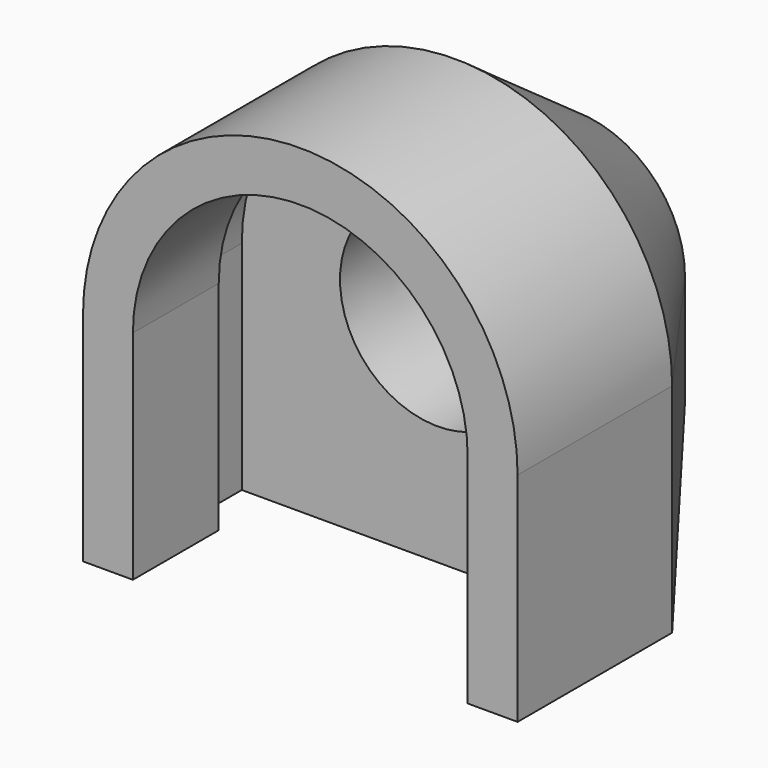
from build123d import *

# Parameters (mm, degrees)
F1_DEPTH  = 16
F3_DEPTH  = 8
F5_DEPTH  = 3
F7_R      = 4.4
F6_R      = 4.55
F9_ANGLE  = 90
F10_SIZE2 = 7
F10_SIZE  = 5


with BuildPart() as f1:
    # F0 (on Top) → F1 (new body)
    with BuildSketch(Plane.XY):
        with BuildLine():
            ThreePointArc((10.125, 0), (0, 10.125), (-10.125, 0))
            Line((-10.125, 0), (-10.125, -10.125))
            Line((-10.125, -10.125), (10.125, -10.125))
            Line((10.125, -10.125), (10.125, 0))
        make_face()
    extrude(amount=F1_DEPTH)

    # F2 (on face) → F3 (cut)
    with BuildSketch(Plane.XY.offset(16)):
        with BuildLine():
            ThreePointArc((7.8, 0), (0, 7.8), (-7.8, 0))
            Line((-7.8, 0), (-7.8, -10.125))
            Line((-7.8, -10.125), (7.8, -10.125))
            Line((7.8, -10.125), (7.8, 0))
        make_face()
    extrude(amount=-F3_DEPTH, mode=Mode.SUBTRACT)

    # F4 (on face) → F5 (cut)
    with BuildSketch(Plane.XY.offset(8)):
        with BuildLine():
            ThreePointArc((9.125, 0), (0, 9.125), (-9.125, 0))
            Line((-9.125, 0), (-9.125, -10.125))
            Line((-9.125, -10.125), (9.125, -10.125))
            Line((9.125, -10.125), (9.125, 0))
        make_face()
    extrude(amount=F5_DEPTH, mode=Mode.SUBTRACT)

    # F7 (on face) → F8 section 0
    with BuildSketch(Plane(origin=(0, 0, 0), x_dir=(1, 0, 0), z_dir=(0, 0, -1))):
        Circle(F7_R)
    # F6 (on face) → F8 section 1
    with BuildSketch(Plane.XY.offset(8)):
        Circle(F6_R)
    loft(mode=Mode.SUBTRACT)


with BuildPart() as f1_1:
    # F9: moved
    add(f1.part.rotate(Axis((0, -10.125, 0), (1, 0, 0)), F9_ANGLE))

    # F10
    f10_edges = [f1_1.edges().sort_by_distance(p)[0] for p in [
        (10.125, -10.125, 5.0625),
        (0, -10.125, 20.25),
        (0, -10.125, 0),
    ]]
    f10_side = f1_1.faces().sort_by_distance((0, -10.125, 19.963622))[0]
    chamfer(f10_edges, length=F10_SIZE, length2=F10_SIZE2, reference=f10_side)


solid = f1_1.part
